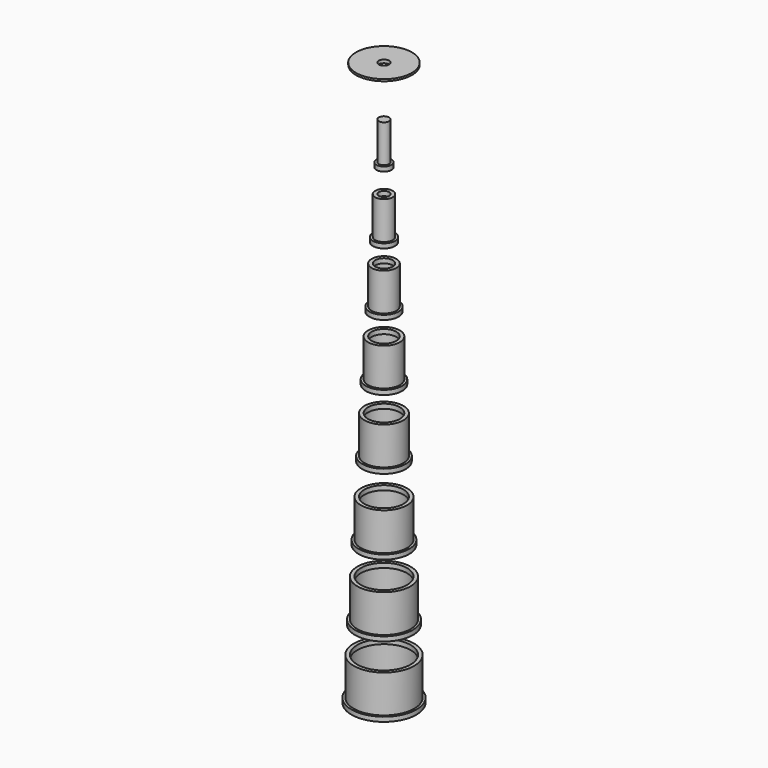
from build123d import *


with BuildPart() as f1:
    # F0 (on Front) → F1 (revolve)
    with BuildSketch(Plane.XZ):
        Polygon((749.595909, 60.970541), (754.595909, 60.970541), (754.595909, 65.970541), (719.595909, 65.970541), (719.595909, 62.970541), (749.595909, 62.970541), align=None)
        Polygon((762.595909, -75.857274), (762.595909, -10.857274), (754.595909, -10.857274), (754.595909, -68.857274), (752.595909, -68.857274), (751.095909, -68.857274), (751.095909, -75.857274), align=None)
        Polygon((754.595909, -119.099362), (754.595909, -112.099362), (752.595909, -112.099362), (751.095909, -112.099362), (749.095909, -112.099362), (749.095909, -170.099362), (747.095909, -170.099362), (745.595909, -170.099362), (745.595909, -177.099362), (752.595909, -177.099362), (752.595909, -119.099362), align=None)
        Polygon((749.095909, -213.09924), (749.095909, -206.09924), (747.095909, -206.09924), (745.595909, -206.09924), (743.595909, -206.09924), (743.595909, -264.09924), (741.595909, -264.09924), (740.095909, -264.09924), (740.095909, -271.09924), (747.095909, -271.09924), (747.095909, -213.09924), align=None)
        Polygon((743.595909, -311.86973), (743.595909, -304.86973), (741.595909, -304.86973), (740.095909, -304.86973), (738.095909, -304.86973), (738.095909, -362.86973), (736.095909, -362.86973), (734.595909, -362.86973), (734.595909, -369.86973), (741.595909, -369.86973), (741.595909, -311.86973), align=None)
        Polygon((738.095909, -415.873314), (738.095909, -408.873314), (736.095909, -408.873314), (734.595909, -408.873314), (732.595909, -408.873314), (732.595909, -466.873314), (730.595909, -466.873314), (729.095909, -466.873314), (729.095909, -473.873314), (736.095909, -473.873314), (736.095909, -415.873314), align=None)
        Polygon((732.595909, -529.176441), (732.595909, -522.176441), (730.595909, -522.176441), (729.095909, -522.176441), (727.095909, -522.176441), (727.095909, -580.176441), (725.095909, -580.176441), (723.595909, -580.176441), (723.595909, -587.176441), (730.595909, -587.176441), (730.595909, -529.176441), align=None)
        Polygon((727.095909, -637.230544), (727.095909, -630.230544), (725.095909, -630.230544), (723.595909, -630.230544), (721.595909, -630.230544), (721.595909, -688.230544), (719.595909, -688.230544), (718.095909, -688.230544), (718.095909, -695.230544), (725.095909, -695.230544), (725.095909, -637.230544), align=None)
        Polygon((721.595909, -743.27728), (721.595909, -736.27728), (719.595909, -736.27728), (718.095909, -736.27728), (716.095909, -736.27728), (716.095909, -794.27728), (714.095909, -794.27728), (712.595909, -794.27728), (712.595909, -801.27728), (719.595909, -801.27728), (719.595909, -743.27728), align=None)
    revolve(axis=Axis((762.595909, 0, -253.723731), (0, 0, -1)))


solid = f1.part
